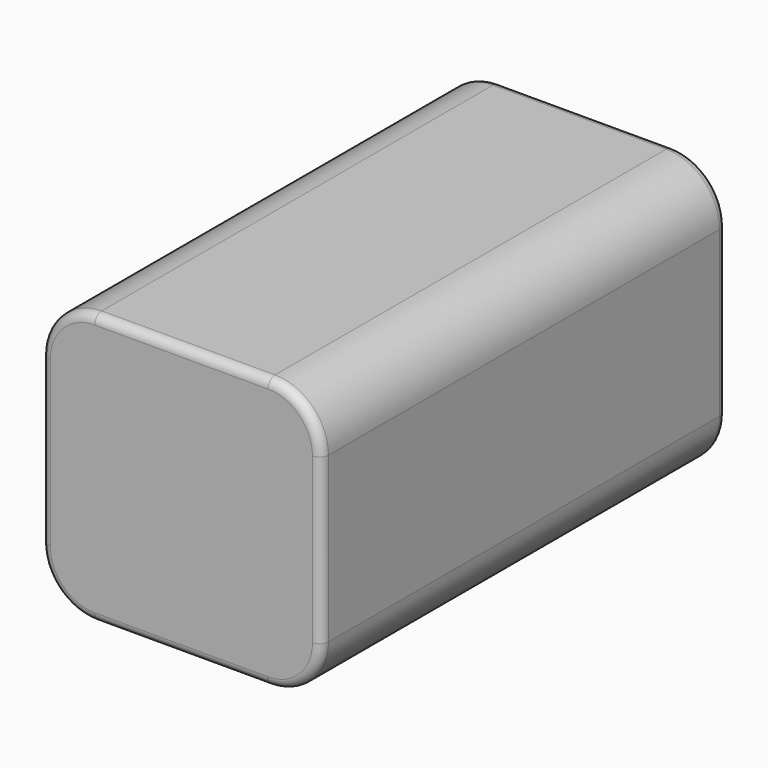
from build123d import *

# Parameters (mm, degrees)
F1_DEPTH = 57
F2_R     = 1


with BuildPart() as f1:
    # F0 (on Front) → F1 (new body)
    with BuildSketch(Plane.XZ):
        with BuildLine():
            Line((-15.75, 9.25), (-15.75, 0))
            Line((-15.75, 0), (-15.75, -9.25))
            ThreePointArc((-15.75, -9.25), (-13.992641, -13.492641), (-9.75, -15.25))
            Line((-9.75, -15.25), (0, -15.25))
            Line((0, -15.25), (9.75, -15.25))
            ThreePointArc((9.75, -15.25), (13.992641, -13.492641), (15.75, -9.25))
            Line((15.75, -9.25), (15.75, 0))
            Line((15.75, 0), (15.75, 9.25))
            ThreePointArc((15.75, 9.25), (13.992641, 13.492641), (9.75, 15.25))
            Line((9.75, 15.25), (0, 15.25))
            Line((0, 15.25), (-9.75, 15.25))
            ThreePointArc((-9.75, 15.25), (-13.992641, 13.492641), (-15.75, 9.25))
        make_face()
    extrude(amount=-F1_DEPTH)

    # F2
    f2_edges = [f1.edges().sort_by_distance(p)[0] for p in [
        (0, 0, 15.25),
        (0, 57, 15.25),
    ]]
    fillet(f2_edges, radius=F2_R)


solid = f1.part
